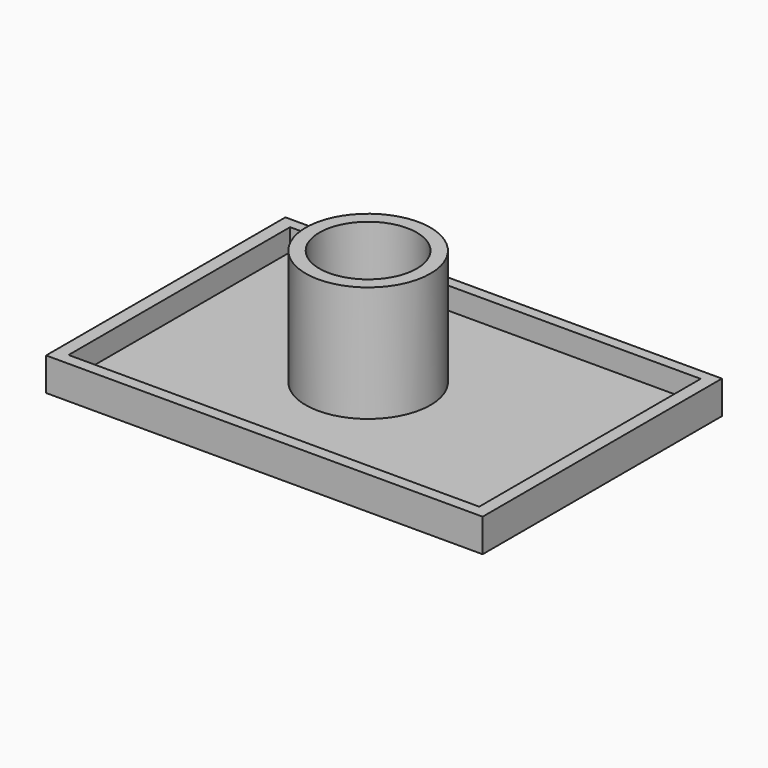
from build123d import *

# Parameters (mm, degrees)
F0_W      = 79.172081314
F0_H      = 54.2475348338
F1_DEPTH  = 2
F2_W      = 79.172081314
F2_H      = 1.9382014871
F3_DEPTH  = 4
F4_W      = 52.3093333468
F4_H      = 4
F5_DEPTH  = 2.3
F6_W      = 76.872081314
F6_H      = 4
F7_DEPTH  = 2.1
F8_W      = 50.2093333468
F8_H      = 4
F9_DEPTH  = 2.4
F10_R     = 11.306687144
F11_DEPTH = 21
F12_R     = 9.8017826829
F13_DEPTH = 11
F14_R     = 8.8437005901
F15_DEPTH = 18


with BuildPart() as f1:
    # F0 (on Top) → F1 (new body)
    with BuildSketch(Plane.XY):
        with Locations((-27.7679827996, 36.830064375)):
            Rectangle(F0_W, F0_H)
    extrude(amount=F1_DEPTH)

    # F2 (on face) → F3 (join)
    with BuildSketch(Plane.XY.offset(2)):
        with Locations((-27.7679827996, 62.9847310483)):
            Rectangle(F2_W, F2_H)
    extrude(amount=F3_DEPTH)

    # F4 (on face) → F5 (join)
    with BuildSketch(Plane.YZ.offset(11.8180578575)):
        with Locations((35.8609636314, 4)):
            Rectangle(F4_W, F4_H)
    extrude(amount=-F5_DEPTH)

    # F6 (on face) → F7 (join)
    with BuildSketch(Plane.XZ.offset(-9.706296958)):
        with Locations((-28.9179827996, 4)):
            Rectangle(F6_W, F6_H)
    extrude(amount=-F7_DEPTH)

    # F8 (on face) → F9 (join)
    with BuildSketch(Plane(origin=(-67.3540234566, 0, 0), x_dir=(0, -1, 0), z_dir=(-1, 0, 0))):
        with Locations((-36.9109636314, 4)):
            Rectangle(F8_W, F8_H)
    extrude(amount=-F9_DEPTH)

    # F10 (on face) → F11 (join)
    with BuildSketch(Plane.XY.offset(2)):
        with Locations((-31.4333550632, 37.8074981272)):
            Circle(F10_R)
    extrude(amount=F11_DEPTH)

    # F12 (on face) → F13 (join)
    with BuildSketch(Plane.XY.offset(23)):
        with Locations((-31.4333550632, 37.8074981272)):
            Circle(F12_R)
    extrude(amount=-F13_DEPTH)

    # F14 (on face) → F15 (cut)
    with BuildSketch(Plane.XY.offset(23)):
        with Locations((-31.4333550632, 37.8074981272)):
            Circle(F14_R)
    extrude(amount=-F15_DEPTH, mode=Mode.SUBTRACT)


solid = f1.part
